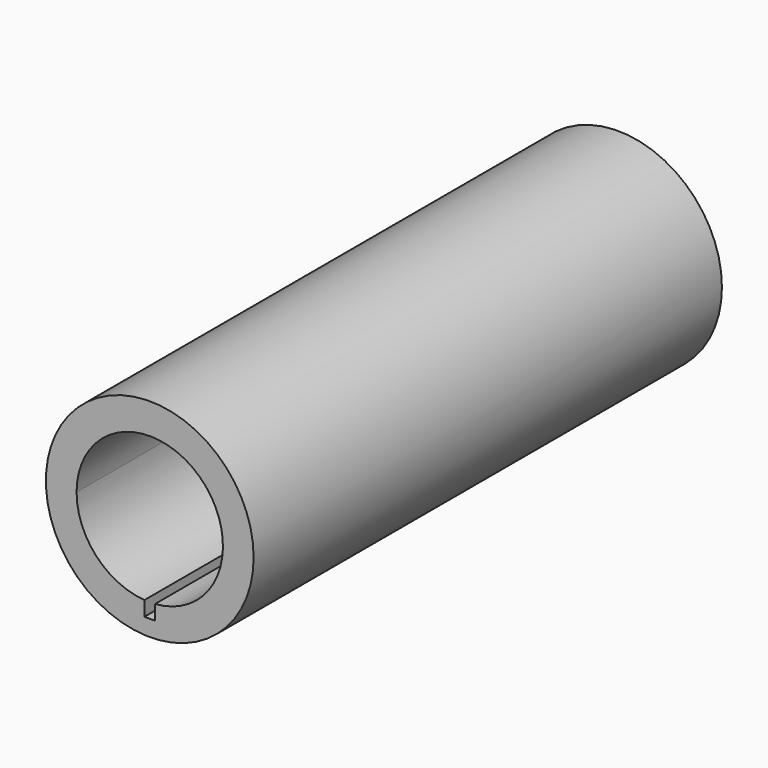
from build123d import *

# Parameters (mm, degrees)
F0_R     = 27.0435400324
F1_DEPTH = 25.4
F3_D     = 38.1
F5_DEPTH = 25.4
F6_DEPTH = 127


with BuildPart() as f1:
    # F0 (on Front) → F1 (new body)
    with BuildSketch(Plane.XZ):
        with Locations((27.6412703097, 27.8783403337)):
            Circle(F0_R)
    extrude(amount=F1_DEPTH)

    # F3 (through all)
    with Locations(Plane.XZ.offset(25.4)):
        with Locations((27.6412703097, 27.8783403337)):
            Hole(F3_D / 2)

    # F4 (on face) → F5 (cut)
    with BuildSketch(Plane(origin=(0, 0, 0), x_dir=(-1, 0, 0), z_dir=(0, 1, 0))):
        with BuildLine():
            Line((-26.2493573993, 5.0403885543), (-26.2493573993, 8.8792593441))
            ThreePointArc((-26.2493573993, 8.8792593441), (-27.6329506683, 8.8283421504), (-29.0165878832, 8.8780508209))
            Line((-29.0165878832, 8.8780508209), (-29.0165878832, 5.0403885543))
            Line((-29.0165878832, 5.0403885543), (-26.2493573993, 5.0403885543))
        make_face()
    extrude(amount=-F5_DEPTH, mode=Mode.SUBTRACT)

    # F6 (add): a face of the model
    f6_faces = [f1.faces().sort_by_distance(p)[0] for p in [
        (1.362637099, -25.4, 27.8783403337),
    ]]
    extrude(f6_faces, amount=F6_DEPTH)


solid = f1.part
